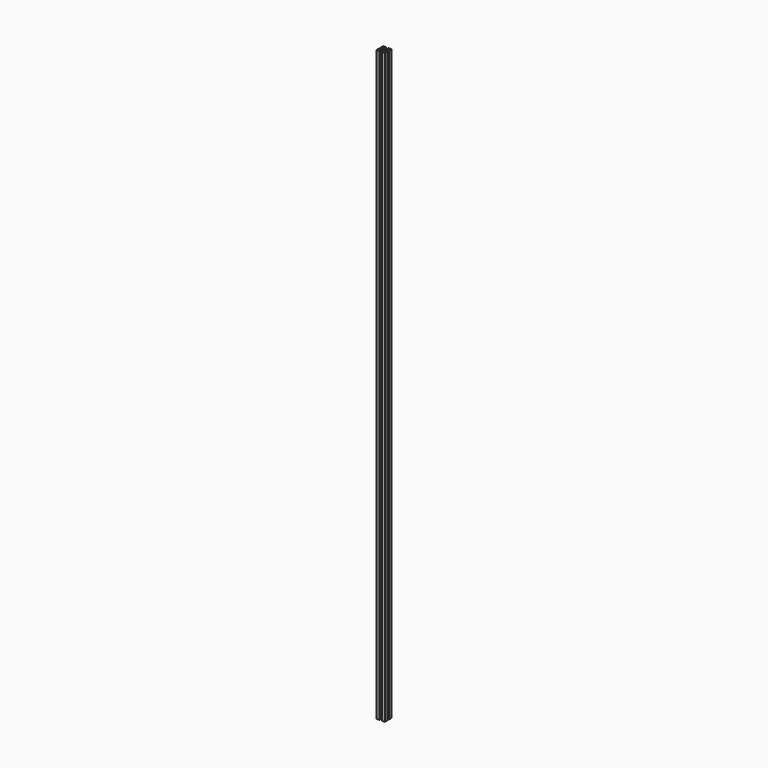
from build123d import *

# Parameters (mm, degrees)
F1_DEPTH = 1409.7


with BuildPart() as f1:
    # F0 (on Top) → F1 (new body)
    with BuildSketch(Plane.XY):
        Polygon((10, 2.63), (10, 10), (2.63, 10), (2.63, 8.5), (5.995, 8.5), (5.995, 7.05566), (2.59934, 3.66), (-2.59934, 3.66), (-5.995, 7.05566), (-5.995, 8.5), (-2.63, 8.5), (-2.63, 10), (-10, 10), (-10, 2.63), (-8.5, 2.63), (-8.5, 5.995), (-7.05566, 5.995), (-3.66, 2.59934), (-3.66, -2.59934), (-7.05566, -5.995), (-8.5, -5.995), (-8.5, -2.63), (-10, -2.63), (-10, -10), (-2.63, -10), (-2.63, -8.5), (-5.995, -8.5), (-5.995, -7.05566), (-2.59934, -3.66), (2.59934, -3.66), (5.995, -7.05566), (5.995, -8.5), (2.63, -8.5), (2.63, -10), (10, -10), (10, -2.63), (8.5, -2.63), (8.5, -5.995), (7.05566, -5.995), (3.66, -2.59934), (3.66, 2.59934), (7.05566, 5.995), (8.5, 5.995), (8.5, 2.63), align=None)
        with BuildLine():
            ThreePointArc((1.886053, 0.912048), (2.042095, 0.467838), (2.095, 0))
            ThreePointArc((2.095, 0), (2.042095, -0.467838), (1.886053, -0.912048))
            ThreePointArc((1.886053, -0.912048), (2.102098, -1.161042), (2.179889, -1.481389))
            ThreePointArc((2.179889, -1.481389), (1.693777, -2.146816), (0.912048, -1.886053))
            ThreePointArc((0.912048, -1.886053), (0, -2.095), (-0.912048, -1.886053))
            ThreePointArc((-0.912048, -1.886053), (-1.975303, -1.975303), (-1.886053, -0.912048))
            ThreePointArc((-1.886053, -0.912048), (-2.095, 0), (-1.886053, 0.912048))
            ThreePointArc((-1.886053, 0.912048), (-1.975303, 1.975303), (-0.912048, 1.886053))
            ThreePointArc((-0.912048, 1.886053), (0, 2.095), (0.912048, 1.886053))
            ThreePointArc((0.912048, 1.886053), (1.693777, 2.146816), (2.179889, 1.481389))
            ThreePointArc((2.179889, 1.481389), (2.102098, 1.161042), (1.886053, 0.912048))
        make_face(mode=Mode.SUBTRACT)
    extrude(amount=F1_DEPTH)


solid = f1.part
